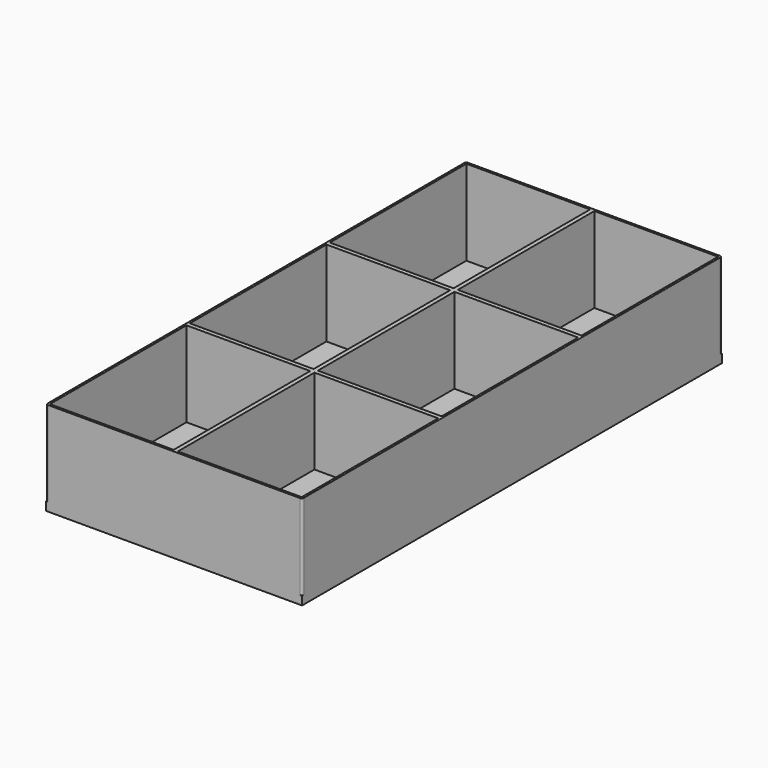
from build123d import *

# Parameters (mm, degrees)
F0_W     = 29
F0_H     = 40
F1_DEPTH = 20
F2_R     = 0.5
F3_W     = 60
F3_H     = 123
F4_DEPTH = 2


with BuildPart() as f1:
    # F0 (on Top) → F1 (new body)
    with BuildSketch(Plane.XY):
        Polygon((-15, 61.5), (-30, 61.5), (-30, 20.5), (-30, -20.5), (-30, -61.5), (0, -61.5), (15, -61.5), (30, -61.5), (30, 61.5), (15, 61.5), (0, 61.5), align=None)
        with Locations((-15, -41)):
            Rectangle(F0_W, F0_H, mode=Mode.SUBTRACT)
        Polygon((0.5, -21), (15, -21), (29.5, -21), (29.5, -61), (0.5, -61), align=None, mode=Mode.SUBTRACT)
        with Locations((-15, 0)):
            Rectangle(F0_W, F0_H, mode=Mode.SUBTRACT)
        Polygon((-29.5, 61), (-15, 61), (-0.5, 61), (-0.5, 21), (-29.5, 21), align=None, mode=Mode.SUBTRACT)
        Polygon((0.5, -20), (0.5, 20), (29.5, 20), (29.5, -20), (15, -20), align=None, mode=Mode.SUBTRACT)
        Polygon((0.5, 61), (15, 61), (29.5, 61), (29.5, 21), (0.5, 21), align=None, mode=Mode.SUBTRACT)
    extrude(amount=F1_DEPTH)

    # F2
    f2_edges = [f1.edges().sort_by_distance(p)[0] for p in [
        (30, 61.5, 10),
        (30, -61.5, 10),
        (-30, -61.5, 10),
        (-30, 61.5, 10),
    ]]
    fillet(f2_edges, radius=F2_R)

    # F3 (on Top) → F4 (join)
    with BuildSketch(Plane.XY):
        Rectangle(F3_W, F3_H)
    extrude(amount=-F4_DEPTH)


solid = f1.part
